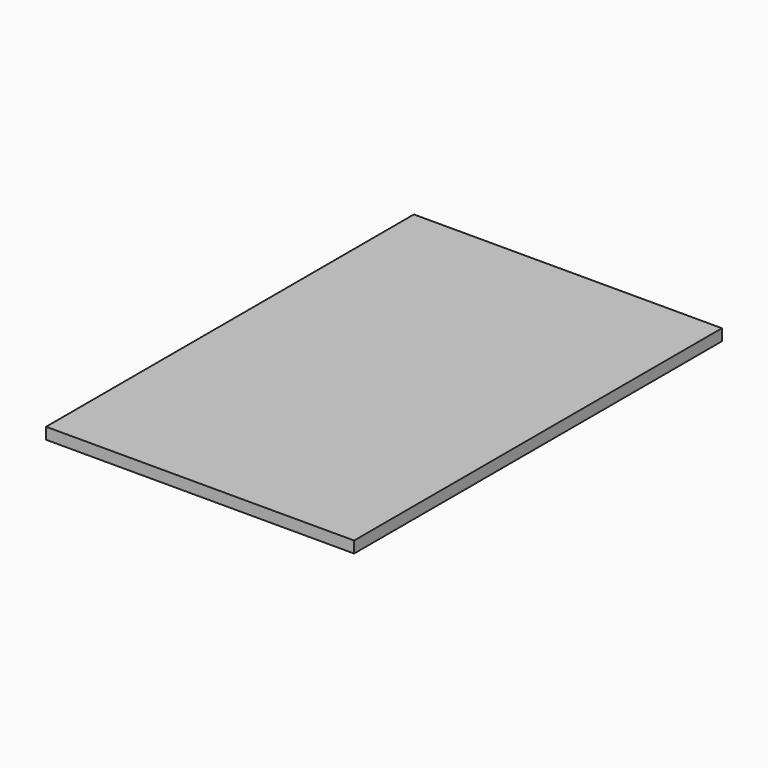
from build123d import *

# Parameters (mm, degrees)
SKETCH_W  = 6.7
SKETCH_H  = 10
PAD_DEPTH = 0.25


with BuildPart() as part:
    # Sketch → Pad (new body)
    with BuildSketch(Plane.XY):
        with Locations((-0.05, 0)):
            Rectangle(SKETCH_W, SKETCH_H)
    extrude(amount=PAD_DEPTH)


solid = part.part
